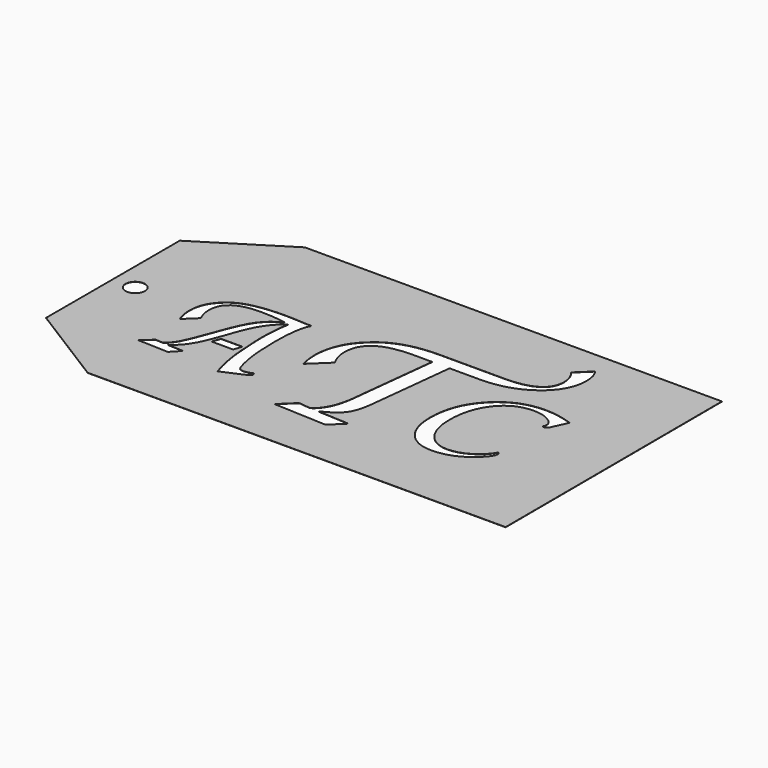
from build123d import *

# Parameters (mm, degrees)
F1_DEPTH = 1.5


with BuildPart() as f1:
    # F0 (on Top) → F1 (new body)
    with BuildSketch(Plane.XY):
        Polygon((1714.812293, 931.897781), (-1148.46321, 931.897781), (-1720.804712, 573.475561), (-1720.804712, -573.475561), (-1148.46321, -931.897781), (1720.804686, -931.897781), align=None)
        Polygon((-1580.721654, 65.681835), (-1567.593207, 66.980156), (-1554.46476, 65.681835), (-1541.960467, 61.882503), (-1530.431788, 55.727752), (-1520.230081, 47.363126), (-1511.865455, 37.161419), (-1505.710705, 25.632715), (-1501.911373, 13.128447), (-1500.613052, 0), (-1501.911373, -13.128447), (-1505.710705, -25.632715), (-1511.865455, -37.161419), (-1520.230081, -47.363126), (-1530.431788, -55.727752), (-1541.960467, -61.882503), (-1554.46476, -65.681835), (-1567.593207, -66.980156), (-1580.721654, -65.681835), (-1593.225922, -61.882503), (-1604.754626, -55.727752), (-1614.956333, -47.363126), (-1623.32096, -37.161419), (-1629.47571, -25.632715), (-1633.275016, -13.128447), (-1634.573363, 0), (-1633.275016, 13.128447), (-1629.47571, 25.632715), (-1623.32096, 37.161419), (-1614.956333, 47.363126), (-1604.754626, 55.727752), (-1593.225922, 61.882503), align=None, mode=Mode.SUBTRACT)
        Polygon((-792.806187, 248.095389), (-737.677773, 249.14545), (-669.423502, 247.577356), (-585.950339, 242.327024), (-549.198089, 242.327024), (-558.796317, 224.262645), (-567.114817, 202.096421), (-574.153513, 175.828376), (-579.91248, 145.458536), (-587.591078, 72.413368), (-590.15061, -17.039031), (-589.618582, -44.34078), (-587.518434, -104.726537), (-585.845996, -159.395541), (-580.827769, -214.72083), (-572.462482, -270.702405), (-560.748815, -327.340265), (-550.375887, -363.567523), (-540.265493, -384.043809), (-534.358875, -389.55665), (-526.614669, -393.494387), (-505.613365, -396.644571), (-476.999071, -392.309553), (-444.709626, -379.31151), (-441.041384, -394.012395), (-442.32007, -400.346723), (-446.156994, -406.222937), (-461.510583, -416.595789), (-486.194125, -428.664599), (-615.352135, -484.850059), (-634.744451, -417.645901), (-649.869541, -348.866612), (-660.728727, -278.51227), (-667.323354, -206.582823), (-707.225865, -234.402554), (-856.776059, -234.402554), (-883.636765, -234.402554), (-910.019668, -291.43419), (-940.865352, -339.671558), (-957.961737, -360.492396), (-976.173791, -379.114634), (-995.501565, -395.538325), (-1015.945009, -409.763417), (-907.270271, -415.013724), (-963.973815, -474.867427), (-1173.454752, -467.516997), (-1103.632438, -404.51311), (-1051.129191, -407.663269), (-1033.934356, -393.224868), (-1018.052117, -376.161325), (-1003.482448, -356.472592), (-990.225375, -334.158692), (-958.851168, -264.201656), (-915.138784, -149.879279), (-899.387787, -106.294555), (-875.532691, -44.899682), (-852.269593, 7.502703), (-829.597172, 50.913944), (-807.514057, 85.335313), (-783.756345, 114.180366), (-756.060896, 140.335965), (-724.427685, 163.800765), (-688.856738, 184.573469), (-773.514709, 195.989372), (-862.635511, 199.792361), (-917.14894, 197.339788), (-964.394439, 189.981916), (-1004.37188, 177.718618), (-1037.081035, 160.549717), (-1062.521802, 138.475034), (-1072.516473, 125.597971), (-1080.693978, 111.494392), (-1091.59741, 79.607664), (-1095.231922, 42.814672), (-1093.656817, 16.463493), (-1088.931528, -9.035821), (-1081.056029, -33.681949), (-1070.030347, -57.473571), (-1152.453474, -136.746463), (-1161.872327, -108.888022), (-1168.601701, -81.490312), (-1172.640301, -54.551986), (-1173.986806, -28.071775), (-1172.222725, 3.692703), (-1166.930585, 33.882076), (-1158.110562, 62.49637), (-1145.762809, 89.535533), (-1129.887479, 114.999618), (-1110.484774, 138.888597), (-1087.554823, 161.202497), (-1061.097802, 181.941292), (-1035.371208, 197.692264), (-1005.444344, 211.343088), (-971.317234, 222.893814), (-932.989854, 232.344392), (-890.462227, 239.694847), (-843.73433, 244.945179), align=None, mode=Mode.SUBTRACT)
        Polygon((994.603904, 261.293813), (1039.354436, 263.328328), (1086.24751, 261.128662), (1133.99504, 254.53053), (1182.595781, 243.535251), (1232.048387, 228.144146), (1196.864154, 150.971377), (1186.895569, 128.387983), (1180.233123, 116.674265), (1172.847438, 108.308953), (1164.739835, 103.290751), (1155.911633, 101.618288), (1144.892935, 103.186382), (1150.405827, 118.022065), (1152.243466, 129.970073), (1149.290158, 146.999706), (1140.430206, 162.912323), (1125.663662, 177.709297), (1104.9905, 191.39187), (1080.642136, 202.876937), (1054.324866, 211.080579), (1026.038715, 216.002768), (995.783708, 217.643507), (964.502948, 216.060503), (934.714768, 211.311388), (906.41932, 203.396012), (879.616757, 192.31417), (854.307283, 178.065735), (830.490998, 160.650555), (808.168132, 140.068427), (787.338811, 116.319198), (768.634531, 90.034745), (752.424149, 61.84707), (738.707667, 31.756147), (727.485108, -0.238023), (718.756449, -34.135441), (712.521689, -69.936081), (708.780828, -107.639993), (707.533891, -147.247153), (711.046127, -206.806622), (721.581996, -260.001385), (729.483377, -284.211598), (739.140178, -306.83012), (750.55222, -327.85685), (763.719351, -347.291558), (778.354654, -364.765285), (794.171259, -379.909197), (811.169168, -392.723268), (829.34843, -403.207525), (848.708996, -411.361941), (869.25089, -417.186516), (890.974088, -420.681277), (913.87864, -421.846172), (947.709331, -419.318364), (981.473094, -411.735803), (1015.171223, -399.099786), (1048.80504, -381.411632), (1080.438251, -359.754068), (1107.608681, -335.733822), (1130.316307, -309.350943), (1148.561178, -280.605382), (1157.62151, -287.693329), (1160.643958, -297.406441), (1156.672287, -316.110722), (1144.758213, -337.57141), (1124.903008, -361.788532), (1097.108017, -388.762088), (1069.740685, -411.281372), (1041.454559, -430.798605), (1012.249614, -447.31366), (982.125874, -460.826333), (951.083315, -471.336472), (919.121962, -478.843924), (886.241814, -483.348513), (852.442847, -484.850059), (825.444984, -483.603122), (799.842241, -479.862261), (775.634441, -473.627501), (752.821431, -464.898816), (731.403008, -453.676258), (711.37907, -439.959775), (692.749415, -423.749419), (675.513889, -405.045139), (660.131751, -384.109443), (646.800053, -361.467425), (635.518922, -337.119036), (626.288562, -311.0643), (619.1091, -283.303193), (613.980713, -253.835738), (610.903553, -222.661937), (609.8778, -189.781764), (611.805965, -142.585973), (617.590307, -97.342147), (627.230699, -54.050438), (640.726963, -12.711049), (658.078923, 26.675893), (679.286449, 64.110184), (704.349341, 99.591698), (733.267444, 133.120232), (765.039821, 163.637747), (798.665738, 190.086285), (834.145322, 212.465793), (871.478775, 230.776297), (910.666251, 245.017823), (951.707901, 255.19032), align=None, mode=Mode.SUBTRACT)
        Polygon((873.206102, 690.312793), (966.927911, 779.568342), (981.247085, 755.674435), (991.476706, 728.620057), (997.615429, 698.404521), (999.661983, 665.02722), (997.592849, 629.127063), (991.385597, 594.690632), (981.040507, 561.718155), (966.557782, 530.209811), (947.937728, 500.165802), (925.180522, 471.586382), (898.286469, 444.471679), (867.255797, 418.821972), (833.367015, 395.636826), (797.526523, 375.543699), (759.734041, 358.542387), (719.989365, 344.632686), (678.292217, 333.814369), (634.642368, 326.087283), (589.039538, 321.451148), (541.483525, 319.905837), (334.704741, 319.905837), (278.925274, -182.907305), (269.992754, -265.470437), (262.368284, -314.606102), (252.139882, -356.395122), (239.308183, -390.839173), (223.873847, -417.93988), (203.652704, -441.231376), (175.715701, -464.245604), (140.061798, -486.98089), (96.690028, -509.435608), (313.129447, -520.594311), (223.873847, -606.867595), (-139.098604, -590.500622), (-43.150714, -498.276931), (37.928347, -507.19548), (59.359114, -491.006511), (78.65171, -471.075664), (95.806057, -447.402864), (110.822105, -419.987984), (123.699702, -388.830845), (134.438822, -353.931372), (143.039363, -315.289438), (149.501225, -272.90489), (156.935703, -200.75845), (214.955298, 319.905837), (88.513463, 319.905837), (15.469997, 316.686362), (-47.835007, 307.028037), (-75.835535, 299.784338), (-101.401347, 290.93099), (-124.532466, 280.467968), (-145.228818, 268.395323), (-163.490402, 254.713054), (-179.317193, 239.421187), (-192.70919, 222.519723), (-203.666293, 204.008685), (-212.188552, 183.888075), (-218.275916, 162.157943), (-221.92836, 138.818264), (-223.145833, 113.869089), (-220.960671, 82.490996), (-214.405362, 50.83495), (-203.480264, 18.900013), (-188.185679, -13.314807), (-309.419219, -129.353996), (-322.250562, -71.89663), (-326.528278, -15.55496), (-323.867247, 34.360968), (-315.884052, 81.836666), (-302.578491, 126.872035), (-283.950308, 169.466946), (-259.999353, 209.621272), (-230.725396, 247.334913), (-196.128259, 282.607715), (-156.207689, 315.439552), (-122.911108, 337.579183), (-86.616007, 356.767003), (-47.322359, 373.002962), (-5.030267, 386.28701), (40.26027, 396.61912), (88.549175, 403.999268), (139.836449, 408.427377), (194.122015, 409.903422), (638.173527, 409.903422), (702.848709, 412.564428), (758.900159, 420.547622), (806.327953, 433.853209), (845.132219, 452.481366), (861.300589, 463.791478), (875.313108, 476.432321), (887.169828, 490.403896), (896.870749, 505.706278), (904.41587, 522.339418), (909.805242, 540.303415), (913.038839, 559.598246), (914.116688, 580.22396), (911.55962, 609.419076), (903.888616, 637.499766), (891.103984, 664.464787), align=None, mode=Mode.SUBTRACT)
        Polygon((-690.20611, -177.69901), (-668.373466, -177.69901), (-673.886308, -95.006389), (-675.723922, -29.63987), (-674.673809, 17.613071), (-670.473615, 78.516836), (-665.485766, 133.6453), (-658.922888, 174.072779), (-684.075213, 156.270909), (-708.079051, 134.367194), (-730.934378, 108.361683), (-752.641167, 78.254352), (-773.199495, 44.0452), (-792.609286, 5.734228), (-810.870565, -36.678565), (-827.983333, -83.193179), (-850.034673, -147.77913), (-862.117453, -177.69901), (-836.546957, -177.69901), align=None)
        Polygon((-883.636765, -234.402554), (-856.776059, -234.402554), (-836.546957, -177.69901), (-862.117453, -177.69901), align=None)
        Polygon((-707.225865, -234.402554), (-667.323354, -206.582823), (-668.373466, -177.69901), (-690.20611, -177.69901), align=None)
    extrude(amount=F1_DEPTH)


solid = f1.part
